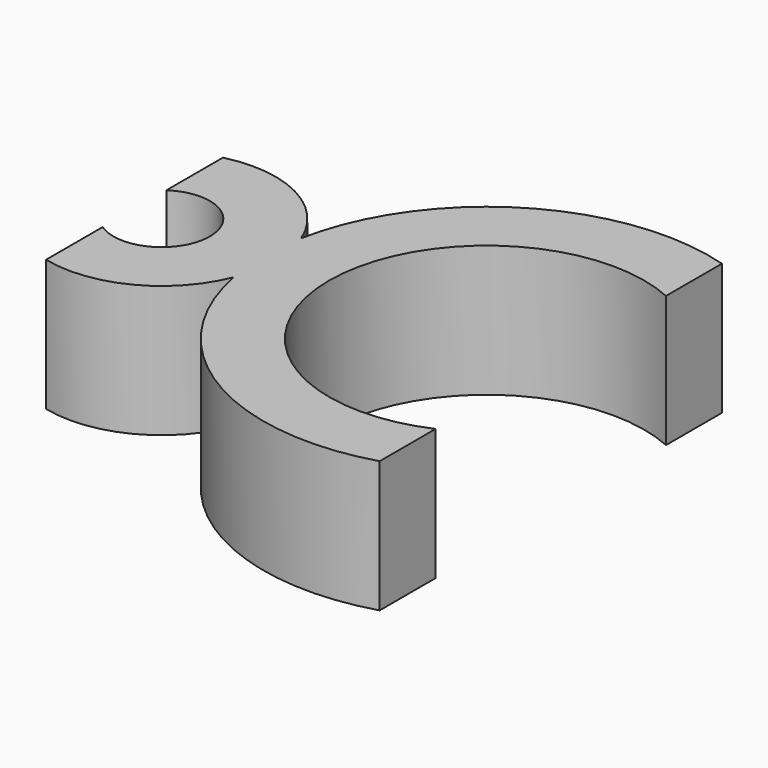
from build123d import *

# Parameters (mm, degrees)
F1_DEPTH = 3


with BuildPart() as f1:
    # F0 (on Top) → F1 (new body)
    with BuildSketch(Plane.XY):
        with BuildLine():
            ThreePointArc((2.768304, -1.911987), (-2.295284, 1.377072), (2.768304, 4.666132))
            Line((2.768304, 4.666132), (2.768304, 6.262552))
            ThreePointArc((2.768304, 6.262552), (-1.338577, 5.738609), (-3.703487, 2.340347))
            ThreePointArc((-3.703487, 2.340347), (-4.929232, 3.689096), (-6.739298, 3.901779))
            Line((-6.739298, 3.901779), (-6.739298, 2.285031))
            ThreePointArc((-6.739298, 2.285031), (-5.018432, 1.376997), (-6.739298, 0.468964))
            Line((-6.739298, 0.468964), (-6.739298, -1.147785))
            ThreePointArc((-6.739298, -1.147785), (-4.929208, -0.93509), (-3.703468, 0.413697))
            ThreePointArc((-3.703468, 0.413697), (-1.338533, -2.984491), (2.768304, -3.508407))
            Line((2.768304, -3.508407), (2.768304, -1.911987))
        make_face()
    extrude(amount=F1_DEPTH)


solid = f1.part
